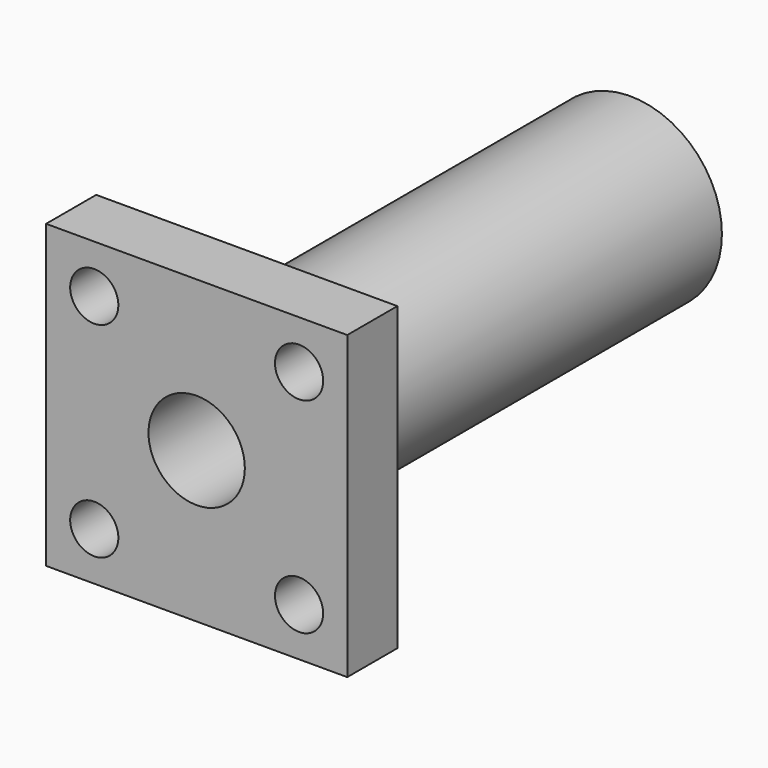
from build123d import *

# Parameters (mm, degrees)
CYLINDER080_R          = 2
CYLINDER080_DEPTH      = 10
CYLINDER081_R          = 2
CYLINDER081_DEPTH      = 10
CYLINDER079_R          = 2
CYLINDER079_DEPTH      = 10
CYLINDER078_R          = 2
CYLINDER078_DEPTH      = 10
CYLINDER077_R          = 4
CYLINDER077_DEPTH      = 60
CYLINDER082_R          = 7.6
CYLINDER082_DEPTH      = 40
BOX027_W               = 25
BOX027_H               = 25
BOX027_DEPTH           = 5.2
CUT062_PLACEMENT_ANGLE = 90


with BuildPart() as cylinder080:
    # Cylinder080 → Cylinder080 (new body)
    with BuildSketch(Plane(origin=(21, 21, -2), x_dir=(1, 0, 0), z_dir=(0, 0, 1))):
        Circle(CYLINDER080_R)
    extrude(amount=CYLINDER080_DEPTH)


with BuildPart() as cylinder081:
    # Cylinder081 → Cylinder081 (new body)
    with BuildSketch(Plane(origin=(21, 4, -2), x_dir=(1, 0, 0), z_dir=(0, 0, 1))):
        Circle(CYLINDER081_R)
    extrude(amount=CYLINDER081_DEPTH)


with BuildPart() as cylinder079:
    # Cylinder079 → Cylinder079 (new body)
    with BuildSketch(Plane(origin=(4, 21, -2), x_dir=(1, 0, 0), z_dir=(0, 0, 1))):
        Circle(CYLINDER079_R)
    extrude(amount=CYLINDER079_DEPTH)


with BuildPart() as cylinder078:
    # Cylinder078 → Cylinder078 (new body)
    with BuildSketch(Plane(origin=(4, 4, -2), x_dir=(1, 0, 0), z_dir=(0, 0, 1))):
        Circle(CYLINDER078_R)
    extrude(amount=CYLINDER078_DEPTH)


with BuildPart() as cylinder077:
    # Cylinder077 → Cylinder077 (new body)
    with BuildSketch(Plane(origin=(12.5, 12.5, -7), x_dir=(1, 0, 0), z_dir=(0, 0, 1))):
        Circle(CYLINDER077_R)
    extrude(amount=CYLINDER077_DEPTH)


with BuildPart() as cylinder082:
    # Cylinder082 → Cylinder082 (new body)
    with BuildSketch(Plane(origin=(12.5, 12.5, 5), x_dir=(1, 0, 0), z_dir=(0, 0, 1))):
        Circle(CYLINDER082_R)
    extrude(amount=CYLINDER082_DEPTH)


with BuildPart() as cut062:
    # Box027 → Box027 (new body)
    with BuildSketch(Plane.XY):
        with Locations((12.5, 12.5)):
            Rectangle(BOX027_W, BOX027_H)
    extrude(amount=BOX027_DEPTH)

    # Fusion034: union Cylinder082
    add(cylinder082.part)

    # Cut060: cut Cylinder077
    add(cylinder077.part, mode=Mode.SUBTRACT)

    # Cut061: cut Cylinder078
    add(cylinder078.part, mode=Mode.SUBTRACT)

    # Cut058: cut Cylinder079
    add(cylinder079.part, mode=Mode.SUBTRACT)

    # Cut059: cut Cylinder081
    add(cylinder081.part, mode=Mode.SUBTRACT)

    # Cut062: cut Cylinder080
    add(cylinder080.part, mode=Mode.SUBTRACT)


with BuildPart() as cut062_1:
    # Cut062 placement: moved
    add(cut062.part.moved(Location((-12.5, 0, 12.5))).rotate(Axis((-12.5, 0, 12.5), (-1, 0, 0)), CUT062_PLACEMENT_ANGLE))


solid = cut062_1.part
